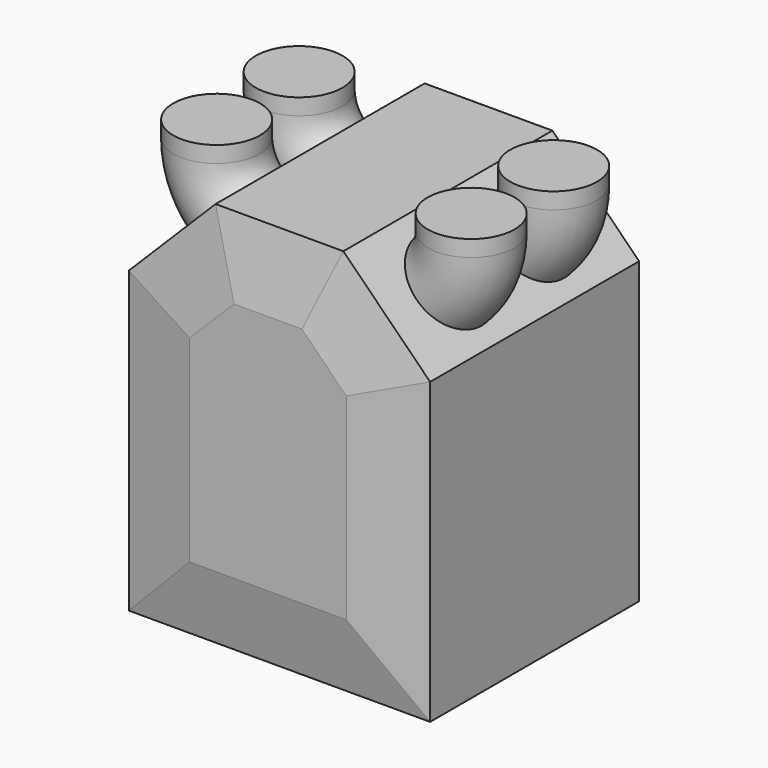
from build123d import *

# Parameters (mm, degrees)
F0_W     = 625
F0_H     = 801
F1_DEPTH = 572
F2_SIZE  = 180
F4_R     = 90
F8_SIZE2 = 30
F8_SIZE  = 150


with BuildPart() as f1:
    # F0 (on Front) → F1 (new body)
    with BuildSketch(Plane.XZ):
        with Locations((0, 400.5)):
            Rectangle(F0_W, F0_H)
    extrude(amount=F1_DEPTH)

    # F2
    f2_edges = [f1.edges().sort_by_distance(p)[0] for p in [
        (-312.5, -286, 801),
        (312.5, -286, 801),
    ]]
    chamfer(f2_edges, length=F2_SIZE)

    # F6: sweep along a path in F5
    with BuildLine(Plane(origin=(0, 0, 0), x_dir=(-1, 0, 0), z_dir=(0, 1, 0))) as f6_path:
        Line((-264, 845), (-264, 811.1898628385))
        ThreePointArc((-264, 811.1898628385), (-253.2145014023, 756.9674997961), (-222.5, 711))
    # F4 (on offset) → F6 (sweep)
    with BuildSketch(Plane.XY.offset(845)):
        with Locations((264, -161)):
            Circle(F4_R)
        with Locations((264, -375)):
            Circle(F4_R)
    sweep(path=f6_path.line)

    # F7: sweep along a path in F5
    with BuildLine(Plane(origin=(0, 0, 0), x_dir=(-1, 0, 0), z_dir=(0, 1, 0))) as f7_path:
        Line((264, 845), (264, 811.1898628385))
        ThreePointArc((264, 811.1898628385), (253.2145014023, 756.9674997961), (222.5, 711))
    # F4 (on offset) → F7 (sweep)
    with BuildSketch(Plane.XY.offset(845)):
        with Locations((-264, -375)):
            Circle(F4_R)
        with Locations((-264, -161)):
            Circle(F4_R)
    sweep(path=f7_path.line)

    # F8
    f8_edges = [f1.edges().sort_by_distance(p)[0] for p in [
        (-312.5, -572, 310.5),
        (-222.5, -572, 711),
        (0, -572, 0),
        (0, -572, 801),
        (312.5, -572, 310.5),
        (222.5, -572, 711),
    ]]
    f8_side = f1.faces().sort_by_distance((0, -572, 376.938251))[0]
    chamfer(f8_edges, length=F8_SIZE, length2=F8_SIZE2, reference=f8_side)


solid = f1.part
